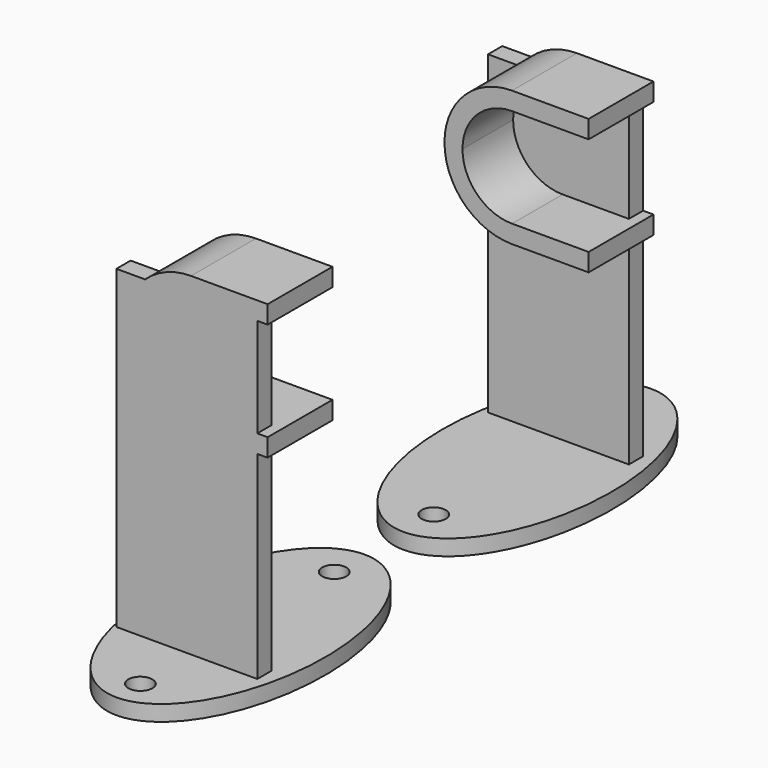
from build123d import *

# Parameters (mm, degrees)
F0_R     = 2.6746278755
F0_W     = 14.561378397
F0_H     = 22.9526823387
F1_DEPTH = 3.5
F2_W     = 31.2729449943
F2_H     = 3.9488486946
F3_DEPTH = 70
F4_W     = 2.2990340441
F4_H     = 4
F5_DEPTH = 18


with BuildPart() as f1:
    # F0 (on Top) → F1 (new body)
    with BuildSketch(Plane.XY):
        with BuildLine():
            add(Edge.make_bspline(
                [(0, -34.388102591), (32.5703019708, -34.388102591), (16.2851509854, 17.1940512955), (0, 68.7762051821), (-16.2851509854, 17.1940512955), (-32.5703019708, -34.388102591), (0, -34.388102591)],
                knots=[0, 0, 0, 2.0943951024, 2.0943951024, 4.1887902048, 4.1887902048, 6.2831853072, 6.2831853072, 6.2831853072], degree=2, weights=[1, 0.5, 1, 0.5, 1, 0.5, 1]))
        make_face()
        with Locations((0, -25.9967967868)):
            Circle(F0_R, mode=Mode.SUBTRACT)
        with Locations((0.5992683582, -3.6611226387)):
            Rectangle(F0_W, F0_H, mode=Mode.SUBTRACT)
        with Locations((0, 27.8062652797)):
            Circle(F0_R, mode=Mode.SUBTRACT)
        with Locations((0.5992683582, -3.6611226387)):
            Rectangle(F0_W, F0_H)
    extrude(amount=F1_DEPTH)

    # F2 (on face) → F3 (join)
    with BuildSketch(Plane.XY.offset(3.5)):
        with Locations((-0.9355065413, 11.7640672252)):
            Rectangle(F2_W, F2_H)
    extrude(amount=F3_DEPTH)

    # F4 (on face) → F5 (join)
    with BuildSketch(Plane(origin=(0, 13.7384915724, 0), x_dir=(-1, 0, 0), z_dir=(0, 1, 0))):
        with BuildLine():
            Line((-10.1980390272, 73.5), (3.87e-08, 73.5))
            Line((3.87e-08, 73.5), (0.9355065413, 73.5))
            Line((0.9355065413, 73.5), (10.1980390272, 73.5))
            ThreePointArc((10.1980390272, 73.5), (5.4772255751, 76.4642400438), (0, 77.5))
            ThreePointArc((0, 77.5), (-5.4772255751, 76.4642400438), (-10.1980390272, 73.5))
        make_face()
        with BuildLine():
            Line((-14.7009659559, 73.5), (-10.1980390272, 73.5))
            ThreePointArc((-10.1980390272, 73.5), (-5.4772255751, 76.4642400438), (0, 77.5))
            Line((0, 77.5), (-17, 77.5))
            Line((-17, 77.5), (-17, 73.5))
            Line((-17, 73.5), (-14.7009659559, 73.5))
        make_face()
        with Locations((-15.8504829779, 49.5)):
            Rectangle(F4_W, F4_H)
        with BuildLine():
            ThreePointArc((0, 47.5), (-5.4772255751, 48.5357599562), (-10.1980390272, 51.5))
            Line((-10.1980390272, 51.5), (-14.7009659559, 51.5))
            Line((-14.7009659559, 51.5), (-14.7009659559, 47.5))
            Line((-14.7009659559, 47.5), (0, 47.5))
        make_face()
        with BuildLine():
            ThreePointArc((11, 62.5), (7.7781745931, 54.7218254069), (0, 51.5))
            Line((0, 51.5), (-10.1980390272, 51.5))
            ThreePointArc((-10.1980390272, 51.5), (-5.4772255751, 48.5357599562), (0, 47.5))
            ThreePointArc((0, 47.5), (10.6066017178, 51.8933982822), (15, 62.5))
            ThreePointArc((15, 62.5), (13.7471921753, 68.5012254829), (10.1980390272, 73.5))
            Line((10.1980390272, 73.5), (0.9355065413, 73.5))
            Line((0.9355065413, 73.5), (3.87e-08, 73.5))
            ThreePointArc((3.87e-08, 73.5), (7.7781746067, 70.2781745794), (11, 62.5))
        make_face()
    extrude(amount=-F5_DEPTH)


with BuildPart() as f7_1:
    # F7: instance of F1
    add(f1.part.mirror(Plane.XZ.offset(39.8)))


solid = Compound([f1.part, f7_1.part])
